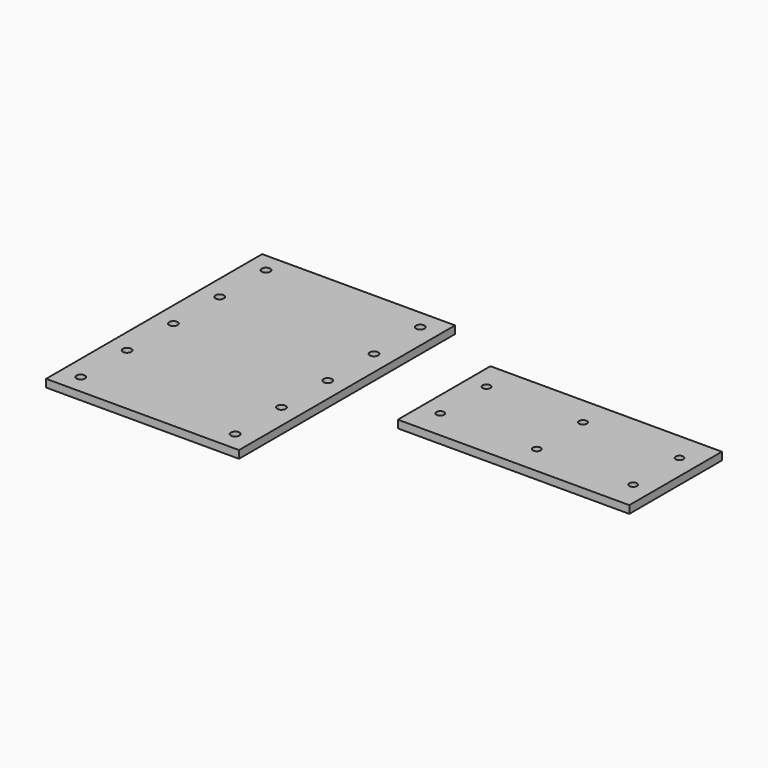
from build123d import *

# Parameters (mm, degrees)
F1_W     = 500
F1_H     = 700
F1_R     = 11
F2_DEPTH = 20
F3_W     = 600
F3_H     = 300
F3_R     = 10
F4_DEPTH = 20


with BuildPart() as f2:
    # F1 (on face) → F2 (new body)
    with BuildSketch(Plane.XY):
        Rectangle(F1_W, F1_H)
        with Locations((-200, -300)):
            Circle(F1_R, mode=Mode.SUBTRACT)
        with Locations((-200, -150)):
            Circle(F1_R, mode=Mode.SUBTRACT)
        with Locations((200, -300)):
            Circle(F1_R, mode=Mode.SUBTRACT)
        with Locations((200, -150)):
            Circle(F1_R, mode=Mode.SUBTRACT)
        with Locations((-200, 0)):
            Circle(F1_R, mode=Mode.SUBTRACT)
        with Locations((-200, 150)):
            Circle(F1_R, mode=Mode.SUBTRACT)
        with Locations((-200, 300)):
            Circle(F1_R, mode=Mode.SUBTRACT)
        with Locations((200, 0)):
            Circle(F1_R, mode=Mode.SUBTRACT)
        with Locations((200, 150)):
            Circle(F1_R, mode=Mode.SUBTRACT)
        with Locations((200, 300)):
            Circle(F1_R, mode=Mode.SUBTRACT)
    extrude(amount=F2_DEPTH)


with BuildPart() as f4:
    # F3 (on face) → F4 (new body)
    with BuildSketch(Plane.XY.offset(20)):
        with Locations((741.707468, 75)):
            Rectangle(F3_W, F3_H)
        with Locations((491.707468, 0)):
            Circle(F3_R, mode=Mode.SUBTRACT)
        with Locations((491.707468, 150)):
            Circle(F3_R, mode=Mode.SUBTRACT)
        with Locations((741.707468, 0)):
            Circle(F3_R, mode=Mode.SUBTRACT)
        with Locations((991.707468, 0)):
            Circle(F3_R, mode=Mode.SUBTRACT)
        with Locations((741.707468, 150)):
            Circle(F3_R, mode=Mode.SUBTRACT)
        with Locations((991.707468, 150)):
            Circle(F3_R, mode=Mode.SUBTRACT)
    extrude(amount=F4_DEPTH)


solid = Compound([f2.part, f4.part])
